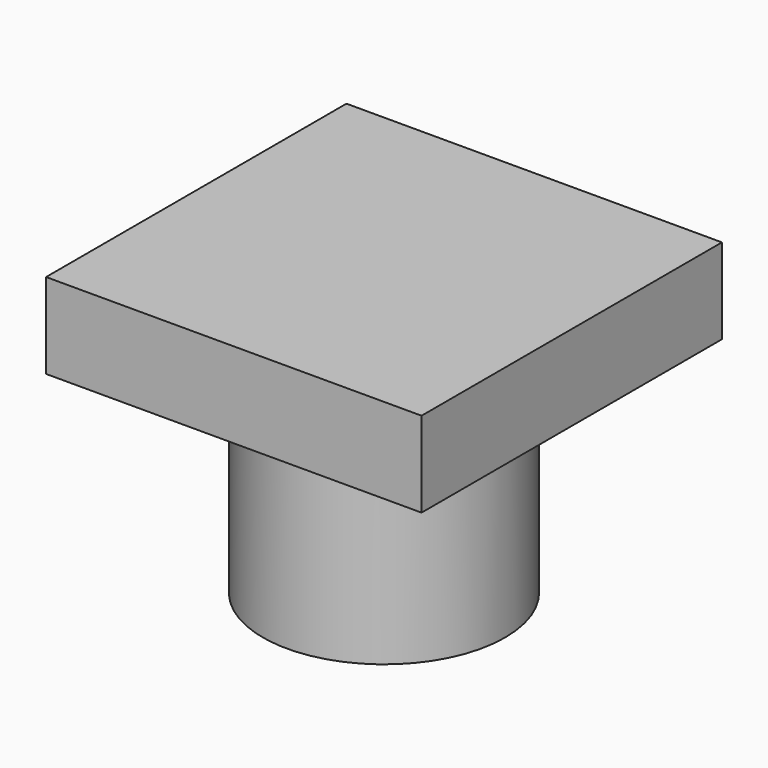
from build123d import *

# Parameters (mm, degrees)
F0_R     = 18.034
F1_DEPTH = 30.9372
F2_T     = -2.54
F0_W     = 55.88
F0_H     = 55.88
F3_DEPTH = 12.7


with BuildPart() as f1:
    # F0 (on Top) → F1 (new body)
    with BuildSketch(Plane.XY):
        Circle(F0_R)
    extrude(amount=-F1_DEPTH)

    # F2
    f2_openings = [f1.faces().sort_by_distance(p)[0] for p in [
        (0, 0, 0),
    ]]
    offset(amount=F2_T, openings=f2_openings)

    # F0 (on Top) → F3 (join)
    with BuildSketch(Plane.XY):
        Rectangle(F0_W, F0_H)
        Circle(F0_R, mode=Mode.SUBTRACT)
        Circle(F0_R)
    extrude(amount=F3_DEPTH)


solid = f1.part
